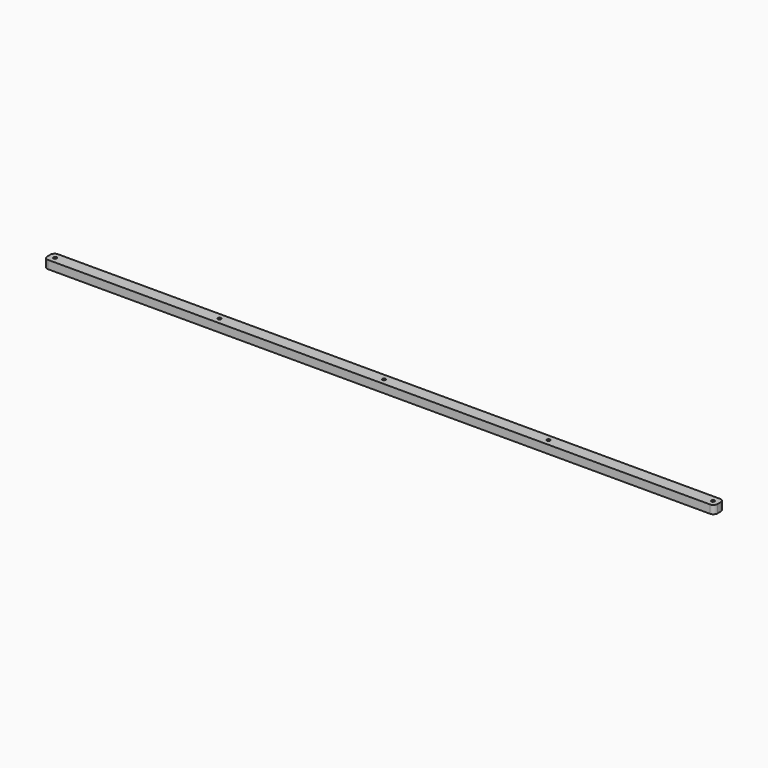
from build123d import *

# Parameters (mm, degrees)
F0_W     = 1630
F0_H     = 30
F0_R     = 4
F1_DEPTH = 20
F2_R     = 10


with BuildPart() as f1:
    # F0 (on Top) → F1 (new body)
    with BuildSketch(Plane.XY):
        Rectangle(F0_W, F0_H)
        with Locations((-800, 0)):
            Circle(F0_R, mode=Mode.SUBTRACT)
        with Locations((-400, 0)):
            Circle(F0_R, mode=Mode.SUBTRACT)
        Circle(F0_R, mode=Mode.SUBTRACT)
        with Locations((400, 0)):
            Circle(F0_R, mode=Mode.SUBTRACT)
        with Locations((800, 0)):
            Circle(F0_R, mode=Mode.SUBTRACT)
    extrude(amount=F1_DEPTH)

    # F2
    f2_edges = [f1.edges().sort_by_distance(p)[0] for p in [
        (-815, 15, 10),
        (-815, -15, 10),
        (815, 15, 10),
        (815, -15, 10),
    ]]
    fillet(f2_edges, radius=F2_R)


solid = f1.part
